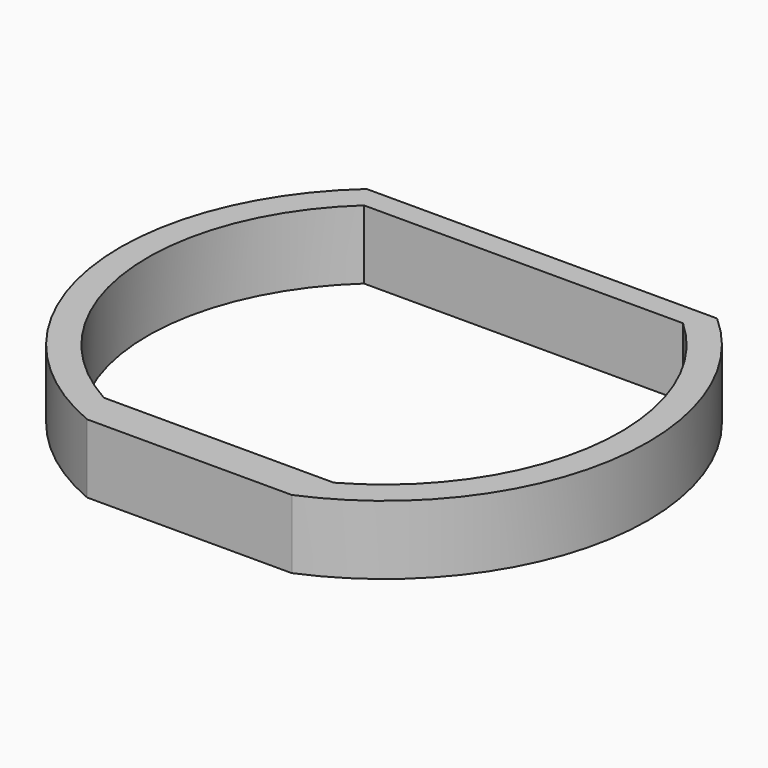
from build123d import *

# Parameters (mm, degrees)
PAD_DEPTH = 3


with BuildPart() as part:
    # Sketch → Pad (new body)
    with BuildSketch(Plane.XY):
        with BuildLine():
            Line((-7.634789, 8.6), (7.634789, 8.6))
            ThreePointArc((4.459821, -10.6), (11.34592, -1.876194), (7.634789, 8.6))
            Line((4.459821, -10.6), (-4.459821, -10.6))
            ThreePointArc((-7.634789, 8.6), (-11.34592, -1.876194), (-4.459821, -10.6))
        make_face()
        with BuildLine():
            ThreePointArc((-6.951978, 7.6), (-10.230161, -1.197413), (-5.008992, -9))
            Line((-5.008992, -9), (5.008992, -9))
            ThreePointArc((5.008992, -9), (10.230161, -1.197413), (6.951978, 7.6))
            Line((-6.951978, 7.6), (6.951978, 7.6))
        make_face(mode=Mode.SUBTRACT)
    extrude(amount=PAD_DEPTH)


solid = part.part
